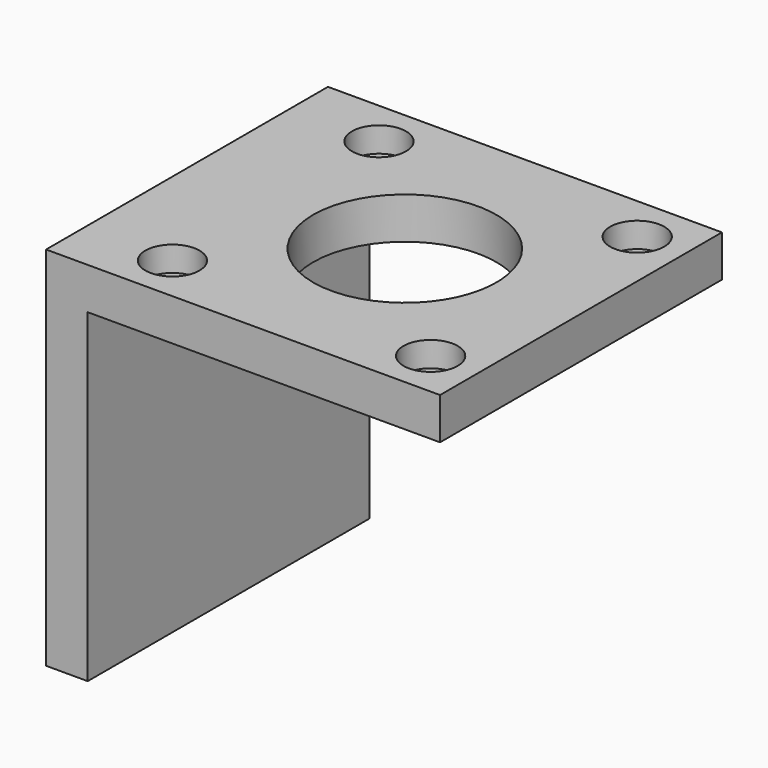
from build123d import *

# Parameters (mm, degrees)
F1_DEPTH       = 42.3
F3_D           = 3.3
F3_DEPTH       = 10
F3_CBORE_D     = 6.5
F3_CBORE_DEPTH = 3
F3_TIP         = 0.9914200214
F4_D           = 22


with BuildPart() as f1:
    # F0 (on Front) → F1 (new body)
    with BuildSketch(Plane.XZ):
        Polygon((0, -39), (0, 0), (42.3, 0), (42.3, 5), (-5, 5), (-5, -39), align=None)
    extrude(amount=F1_DEPTH)

    # F3
    with Locations(Plane.XY.offset(5)):
        with Locations((5.65, -5.65), (36.65, -5.65), (36.65, -36.65), (5.65, -36.65)):
            CounterBoreHole(F3_D / 2, F3_CBORE_D / 2, F3_CBORE_DEPTH, depth=F3_DEPTH)
            with Locations((0, 0, -(F3_DEPTH + F3_TIP / 2))):  # 118° drill point
                Cone(0, F3_D / 2, F3_TIP, mode=Mode.SUBTRACT)

    # F4 (through all)
    with Locations(Plane.XY.offset(5)):
        with Locations((21.15, -21.15)):
            Hole(F4_D / 2)


solid = f1.part
